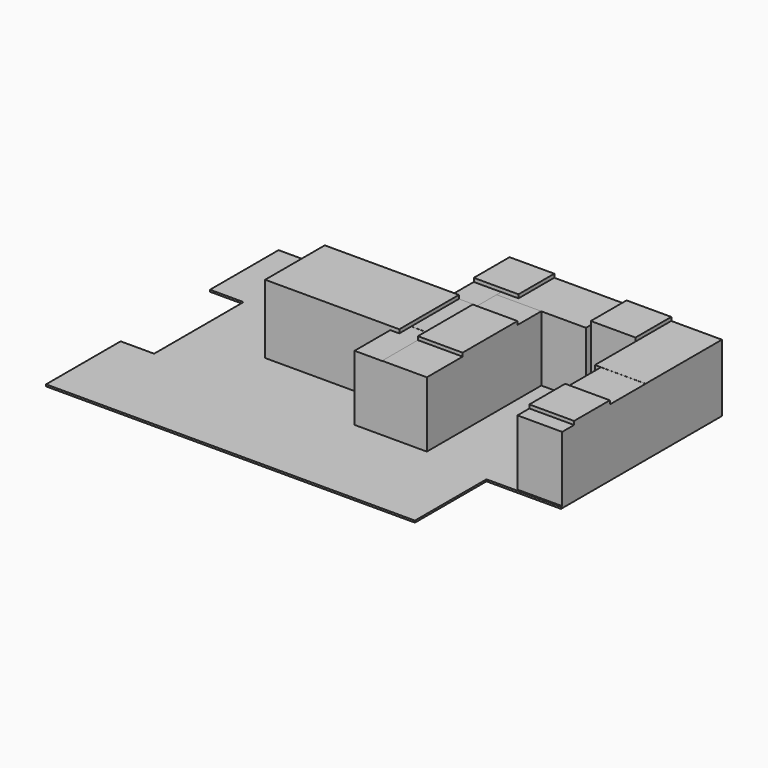
from build123d import *

# Parameters (mm, degrees)
F1_DEPTH = 25
F2_W     = 600
F2_H     = 600
F3_DEPTH = 903
F2_H_2   = 200
F4_DEPTH = 902
F2_W_2   = 80
F2_H_3   = 80
F5_DEPTH = 901
F2_W_3   = 290
F6_W     = 1800
F6_H     = 1000
F7_DEPTH = 950


with BuildPart() as f1:
    # F0 (on Top) → F1 (new body)
    with BuildSketch(Plane.XY):
        Polygon((-1000, 0), (0, 0), (0, 2700), (-600, 2700), (-600, 2800), (-1800, 2800), (-1800, 2700), (-3250, 2700), (-3250, 2800), (-5350, 2800), (-5350, 2700), (-5950, 2700), (-5950, 1550), (-5500, 1550), (-5500, 50), (-5950, 50), (-5950, -1200), (-1000, -1200), align=None)
    extrude(amount=F1_DEPTH)

    # F2 (on Top) → F3 (join)
    with BuildSketch(Plane.XY):
        Polygon((-1880, 1620), (-1880, 2020), (-2480, 2020), (-2480, 1700), (-2480, 1620), align=None)
        with Locations((-2180, 400)):
            Rectangle(F2_W, F2_H)
    extrude(amount=F3_DEPTH)

    # F2 (on Top) → F4 (join)
    with BuildSketch(Plane.XY):
        Polygon((-2480, 1620), (-2480, 1700), (-2850, 1700), (-2850, 900), (-2480, 900), align=None)
        Polygon((0, 1420), (0, 2700), (-680, 2700), (-680, 2100), (-680, 1420), (-600, 1420), align=None)
        Polygon((-1280, 2100), (-1280, 2700), (-2250, 2700), (-2250, 2100), (-2480, 2100), (-2480, 2020), (-1880, 2020), (-1280, 2020), align=None)
        with Locations((-300, 120)):
            Rectangle(F2_W, F2_H_2)
    extrude(amount=F4_DEPTH)

    # F2 (on Top) → F5 (join)
    with BuildSketch(Plane.XY):
        Polygon((-2560, 2020), (-2560, 2100), (-2850, 2100), (-2850, 1700), (-2480, 1700), (-2480, 2020), align=None)
        with Locations((-2520, 2060)):
            Rectangle(F2_W_2, F2_H_3)
        Polygon((-2480, 700), (-2480, 900), (-2850, 900), (-2850, 100), (-2480, 100), align=None)
        with Locations((-300, 1120)):
            Rectangle(F2_W, F2_H)
    extrude(amount=F5_DEPTH)

    # F2 (on Top) + F6 (on Top) → F7 (join)
    with BuildSketch(Plane.XY):
        with Locations((-980, 2400)):
            Rectangle(F2_W, F2_H)
        with Locations((-300, 520)):
            Rectangle(F2_W, F2_H)
        Polygon((-1880, 700), (-1880, 1620), (-2480, 1620), (-2480, 900), (-2480, 700), align=None)
        with Locations((-2705, 2400)):
            Rectangle(F2_W_3, F2_H)
        Polygon((-2250, 2100), (-2250, 2700), (-2560, 2700), (-2560, 2100), (-2480, 2100), align=None)
    with BuildSketch(Plane.XY):
        with Locations((-3630, 1200)):
            Rectangle(F6_W, F6_H)
    extrude(amount=F7_DEPTH)


solid = f1.part
